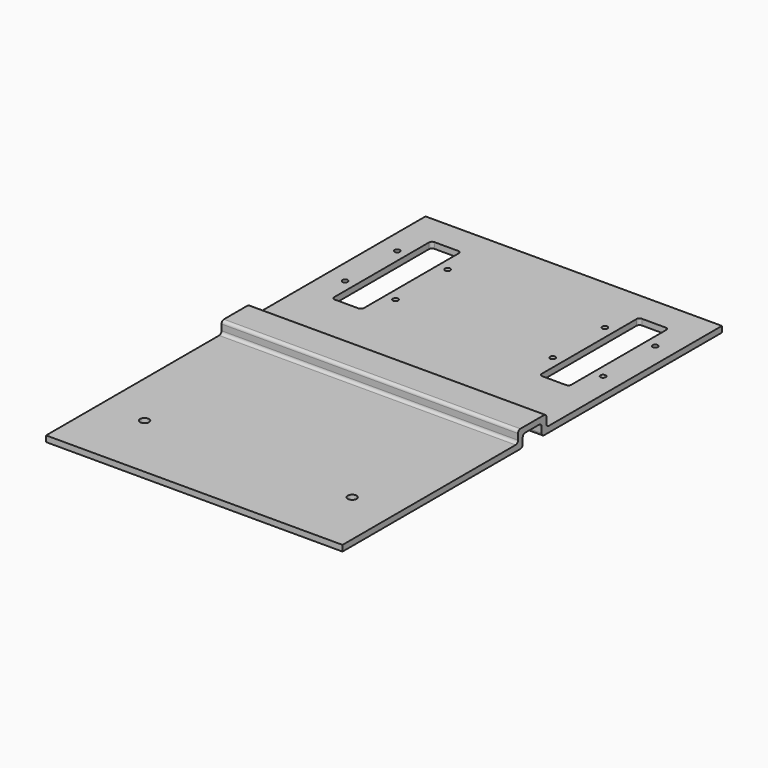
from build123d import *

# Parameters (mm, degrees)
F0_W     = 500
F0_H     = 800
F0_R     = 7.5
F0_R_2   = 4.5
F1_DEPTH = 10
F3_DEPTH = 500
F5_DEPTH = 500.001


with BuildPart() as f1:
    # F0 (on Top) → F1 (new body)
    with BuildSketch(Plane.XY):
        with Locations((0, -175)):
            Rectangle(F0_W, F0_H)
        with Locations((-175, -461)):
            Circle(F0_R, mode=Mode.SUBTRACT)
        with Locations((175, -461)):
            Circle(F0_R, mode=Mode.SUBTRACT)
        with Locations((-217.5, 15)):
            Circle(F0_R_2, mode=Mode.SUBTRACT)
        with Locations((-132.5, 15)):
            Circle(F0_R_2, mode=Mode.SUBTRACT)
        with BuildLine():
            ThreePointArc((-200, 170), (-198.5355339059, 173.5355339059), (-195, 175))
            Line((-195, 175), (-155, 175))
            ThreePointArc((-155, 175), (-151.4644660941, 173.5355339059), (-150, 170))
            Line((-150, 170), (-150, -30))
            ThreePointArc((-150, -30), (-151.4644660941, -33.5355339059), (-155, -35))
            Line((-155, -35), (-195, -35))
            ThreePointArc((-195, -35), (-198.5355339059, -33.5355339059), (-200, -30))
            Line((-200, -30), (-200, 170))
        make_face(mode=Mode.SUBTRACT)
        with Locations((-217.5, 125)):
            Circle(F0_R_2, mode=Mode.SUBTRACT)
        with Locations((-132.5, 125)):
            Circle(F0_R_2, mode=Mode.SUBTRACT)
        with Locations((132.5, 15)):
            Circle(F0_R_2, mode=Mode.SUBTRACT)
        with Locations((217.5, 15)):
            Circle(F0_R_2, mode=Mode.SUBTRACT)
        with BuildLine():
            Line((195, -35), (155, -35))
            ThreePointArc((155, -35), (151.4644660941, -33.5355339059), (150, -30))
            Line((150, -30), (150, 170))
            ThreePointArc((150, 170), (151.4644660941, 173.5355339059), (155, 175))
            Line((155, 175), (195, 175))
            ThreePointArc((195, 175), (198.5355339059, 173.5355339059), (200, 170))
            Line((200, 170), (200, -30))
            ThreePointArc((200, -30), (198.5355339059, -33.5355339059), (195, -35))
        make_face(mode=Mode.SUBTRACT)
        with Locations((132.5, 125)):
            Circle(F0_R_2, mode=Mode.SUBTRACT)
        with Locations((217.5, 125)):
            Circle(F0_R_2, mode=Mode.SUBTRACT)
    extrude(amount=F1_DEPTH)

    # F2 (on face) → F3 (join, through all)
    with BuildSketch(Plane.YZ.offset(250)):
        with BuildLine():
            Line((-150, 30), (-200, 30))
            ThreePointArc((-200, 30), (-203.5355339059, 28.5355339059), (-205, 25))
            Line((-205, 25), (-205, 15))
            ThreePointArc((-205, 15), (-206.4644660941, 11.4644660941), (-210, 10))
            Line((-210, 10), (-195, 10))
            Line((-195, 10), (-195, 15))
            ThreePointArc((-195, 15), (-193.5355339059, 18.5355339059), (-190, 20))
            Line((-190, 20), (-160, 20))
            ThreePointArc((-160, 20), (-156.4644660941, 18.5355339059), (-155, 15))
            Line((-155, 15), (-155, 10))
            Line((-155, 10), (-140, 10))
            ThreePointArc((-140, 10), (-143.5355339059, 11.4644660941), (-145, 15))
            Line((-145, 15), (-145, 25))
            ThreePointArc((-145, 25), (-146.4644660941, 28.5355339059), (-150, 30))
        make_face()
    extrude(amount=-F3_DEPTH)

    # F4 (on face) → F5 (cut, through all)
    with BuildSketch(Plane.YZ.offset(250)):
        Polygon((-150, 0), (-200, 0), (-211.0108286142, 0), (-211.0108286142, -10.5340015143), (-138.8553231955, -10.5340015143), (-138.8553231955, 0), align=None)
        with BuildLine():
            Line((-155, 10), (-195, 10))
            Line((-195, 10), (-195, 5))
            ThreePointArc((-195, 5), (-196.4644660941, 1.4644660941), (-200, 0))
            Line((-200, 0), (-150, 0))
            ThreePointArc((-150, 0), (-153.5355339059, 1.4644660941), (-155, 5))
            Line((-155, 5), (-155, 10))
        make_face()
    extrude(amount=-F5_DEPTH, mode=Mode.SUBTRACT)


solid = f1.part
